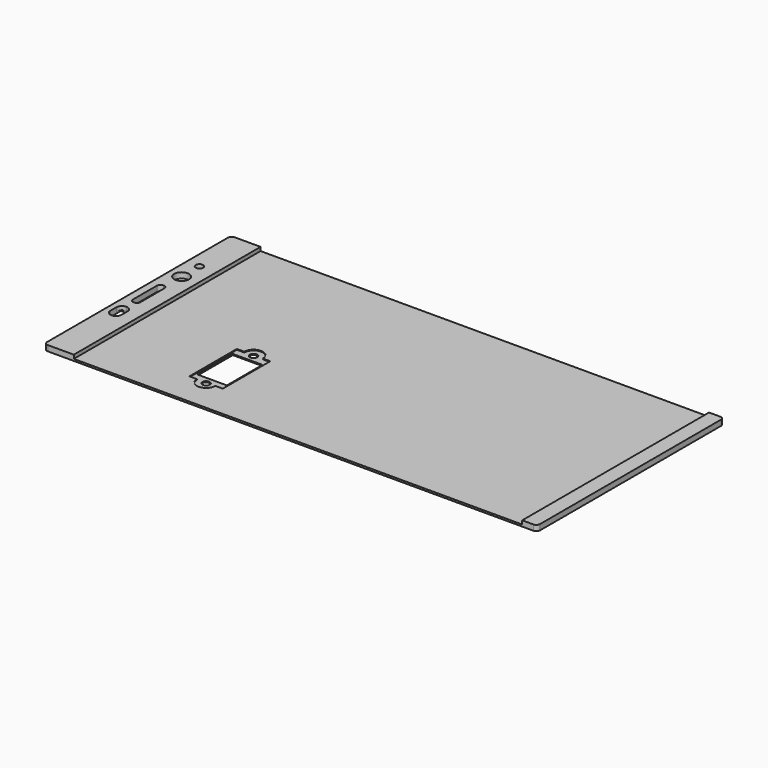
from build123d import *

# Parameters (mm, degrees)
BOX016_W          = 2
BOX016_H          = 10
BOX016_DEPTH      = 10
FILLET008_R       = 0.95
BOX017_W          = 3
BOX017_H          = 5
BOX017_DEPTH      = 10
CYLINDER011_R     = 2
CYLINDER011_DEPTH = 10
CYLINDER010_R     = 1
CYLINDER010_DEPTH = 10
CYLINDER005_R     = 1
CYLINDER005_DEPTH = 10
CYLINDER004_R     = 1
CYLINDER004_DEPTH = 10
CYLINDER009_R     = 1.2
CYLINDER009_DEPTH = 0.1
CYLINDER008_R     = 1.2
CYLINDER008_DEPTH = 0.1
BOX011_W          = 9
BOX011_H          = 2
BOX011_DEPTH      = 0.3
BOX012_W          = 9
BOX012_H          = 2
BOX012_DEPTH      = 0.3
CYLINDER006_R     = 1.5
CYLINDER006_DEPTH = 10
CYLINDER007_R     = 1.5
CYLINDER007_DEPTH = 10
BOX010_W          = 8
BOX010_H          = 16
BOX010_DEPTH      = 1.2
CYLINDER003_R     = 2.5
CYLINDER003_DEPTH = 0.3
CYLINDER002_R     = 2.5
CYLINDER002_DEPTH = 0.3
BOX009_W          = 9
BOX009_H          = 16
BOX009_DEPTH      = 0.3
BOX003_W          = 133
BOX003_H          = 63
BOX003_DEPTH      = 0.5
FILLET004_R       = 1
BOX007_W          = 4
BOX007_H          = 63
BOX007_DEPTH      = 1
FILLET006_R       = 1
BOX018_W          = 3
BOX018_H          = 5
BOX018_DEPTH      = 10
FILLET009_R       = 1.49
BOX006_W          = 8
BOX006_H          = 63
BOX006_DEPTH      = 1
FILLET007_R       = 1


with BuildPart() as fillet008:
    # Box016 → Box016 (new body)
    with BuildSketch(Plane(origin=(4, 28.5, 0), x_dir=(1, 0, 0), z_dir=(0, 0, 1))):
        with Locations((1, 5)):
            Rectangle(BOX016_W, BOX016_H)
    extrude(amount=BOX016_DEPTH)

    # Fillet008
    fillet008_edges = [fillet008.edges().sort_by_distance(p)[0] for p in [
        (4, 28.5, 5),
        (4, 38.5, 5),
        (6, 28.5, 5),
        (6, 38.5, 5),
    ]]
    fillet(fillet008_edges, radius=FILLET008_R)


with BuildPart() as cubo011:
    # Box017 → Box017 (new body)
    with BuildSketch(Plane(origin=(3.5, 21, 0), x_dir=(1, 0, 0), z_dir=(0, 0, 1))):
        with Locations((1.5, 2.5)):
            Rectangle(BOX017_W, BOX017_H)
    extrude(amount=BOX017_DEPTH)


with BuildPart() as cilindro011:
    # Cylinder011 → Cylinder011 (new body)
    with BuildSketch(Plane(origin=(5.5, 44, 0), x_dir=(1, 0, 0), z_dir=(0, 0, 1))):
        Circle(CYLINDER011_R)
    extrude(amount=CYLINDER011_DEPTH)


with BuildPart() as cilindro010:
    # Cylinder010 → Cylinder010 (new body)
    with BuildSketch(Plane(origin=(5.5, 50, 0), x_dir=(1, 0, 0), z_dir=(0, 0, 1))):
        Circle(CYLINDER010_R)
    extrude(amount=CYLINDER010_DEPTH)


with BuildPart() as cilindro005:
    # Cylinder005 → Cylinder005 (new body)
    with BuildSketch(Plane(origin=(38.5, 11, 1), x_dir=(1, 0, 0), z_dir=(0, 0, 1))):
        Circle(CYLINDER005_R)
    extrude(amount=CYLINDER005_DEPTH)


with BuildPart() as cilindro004:
    # Cylinder004 → Cylinder004 (new body)
    with BuildSketch(Plane(origin=(38.5, 27, 1), x_dir=(1, 0, 0), z_dir=(0, 0, 1))):
        Circle(CYLINDER004_R)
    extrude(amount=CYLINDER004_DEPTH)


with BuildPart() as cilindro009:
    # Cylinder009 → Cylinder009 (new body)
    with BuildSketch(Plane(origin=(38.5, 27, 1), x_dir=(1, 0, 0), z_dir=(0, 0, 1))):
        Circle(CYLINDER009_R)
    extrude(amount=CYLINDER009_DEPTH)


with BuildPart() as cilindro008:
    # Cylinder008 → Cylinder008 (new body)
    with BuildSketch(Plane(origin=(38.5, 11, 1), x_dir=(1, 0, 0), z_dir=(0, 0, 1))):
        Circle(CYLINDER008_R)
    extrude(amount=CYLINDER008_DEPTH)


with BuildPart() as cubo008:
    # Box011 → Box011 (new body)
    with BuildSketch(Plane(origin=(34, 11, 5.5), x_dir=(1, 0, 0), z_dir=(0, 0, 1))):
        with Locations((4.5, 1)):
            Rectangle(BOX011_W, BOX011_H)
    extrude(amount=BOX011_DEPTH)


with BuildPart() as cubo009:
    # Box012 → Box012 (new body)
    with BuildSketch(Plane(origin=(34, 25, 5.5), x_dir=(1, 0, 0), z_dir=(0, 0, 1))):
        with Locations((4.5, 1)):
            Rectangle(BOX012_W, BOX012_H)
    extrude(amount=BOX012_DEPTH)


with BuildPart() as cilindro006:
    # Cylinder006 → Cylinder006 (new body)
    with BuildSketch(Plane(origin=(38.5, 11, 1), x_dir=(1, 0, 0), z_dir=(0, 0, 1))):
        Circle(CYLINDER006_R)
    extrude(amount=CYLINDER006_DEPTH)


with BuildPart() as cilindro007:
    # Cylinder007 → Cylinder007 (new body)
    with BuildSketch(Plane(origin=(38.5, 27, 1), x_dir=(1, 0, 0), z_dir=(0, 0, 1))):
        Circle(CYLINDER007_R)
    extrude(amount=CYLINDER007_DEPTH)


with BuildPart() as cut008:
    # Box010 → Box010 (new body)
    with BuildSketch(Plane(origin=(34.5, 11, 5), x_dir=(1, 0, 0), z_dir=(0, 0, 1))):
        with Locations((4, 8)):
            Rectangle(BOX010_W, BOX010_H)
    extrude(amount=BOX010_DEPTH)

    # Cut001: cut Cilindro004
    add(cilindro004.part, mode=Mode.SUBTRACT)

    # Cut002: cut Cilindro005
    add(cilindro005.part, mode=Mode.SUBTRACT)

    # Cut007: cut Cilindro007
    add(cilindro007.part, mode=Mode.SUBTRACT)

    # Cut008: cut Cilindro006
    add(cilindro006.part, mode=Mode.SUBTRACT)


with BuildPart() as cilindro003:
    # Cylinder003 → Cylinder003 (new body)
    with BuildSketch(Plane(origin=(38.5, 27, 1), x_dir=(1, 0, 0), z_dir=(0, 0, 1))):
        Circle(CYLINDER003_R)
    extrude(amount=CYLINDER003_DEPTH)


with BuildPart() as cilindro002:
    # Cylinder002 → Cylinder002 (new body)
    with BuildSketch(Plane(origin=(38.5, 11, 1), x_dir=(1, 0, 0), z_dir=(0, 0, 1))):
        Circle(CYLINDER002_R)
    extrude(amount=CYLINDER002_DEPTH)


with BuildPart() as dont_show:
    # Box009 → Box009 (new body)
    with BuildSketch(Plane(origin=(34, 11, 1), x_dir=(1, 0, 0), z_dir=(0, 0, 1))):
        with Locations((4.5, 8)):
            Rectangle(BOX009_W, BOX009_H)
    extrude(amount=BOX009_DEPTH)

    # Fusion001: union Cilindro003, Cilindro002
    add(cilindro003.part)
    add(cilindro002.part)


with BuildPart() as dont_show_1:
    # Fusion001 placement: moved
    add(dont_show.part.moved(Location((0, 0, 4.4))))

    # Cut003: cut Cilindro005
    add(cilindro005.part, mode=Mode.SUBTRACT)

    # Cut004: cut Cilindro004
    add(cilindro004.part, mode=Mode.SUBTRACT)


with BuildPart() as dont_show_2:
    # Cut004 placement: moved
    add(dont_show_1.part.moved(Location((0, 0, 0.4))))

    # Fusion002: union Cut008
    add(cut008.part)


with BuildPart() as cut022:
    # Box003 → Box003 (new body)
    with BuildSketch(Plane(origin=(2, 2, 5.5), x_dir=(1, 0, 0), z_dir=(0, 0, 1))):
        with Locations((66.5, 31.5)):
            Rectangle(BOX003_W, BOX003_H)
    extrude(amount=BOX003_DEPTH)

    # Fillet004
    fillet004_edges = [cut022.edges().sort_by_distance(p)[0] for p in [
        (2, 2, 5.75),
        (2, 65, 5.75),
        (135, 2, 5.75),
        (135, 65, 5.75),
    ]]
    fillet(fillet004_edges, radius=FILLET004_R)

    # Cut009: cut Dont show
    add(dont_show_2.part, mode=Mode.SUBTRACT)

    # Fusion003: union Cubo008, Cubo009
    add(cubo008.part)
    add(cubo009.part)

    # Cut010: cut Cilindro008
    add(cilindro008.part, mode=Mode.SUBTRACT)

    # Cut011: cut Cilindro009
    add(cilindro009.part, mode=Mode.SUBTRACT)

    # Cut012: cut Cilindro004
    add(cilindro004.part, mode=Mode.SUBTRACT)

    # Cut013: cut Cilindro005
    add(cilindro005.part, mode=Mode.SUBTRACT)

    # Cut017: cut Cilindro010
    add(cilindro010.part, mode=Mode.SUBTRACT)

    # Cut019: cut Cilindro011
    add(cilindro011.part, mode=Mode.SUBTRACT)

    # Cut020: cut Cubo011
    add(cubo011.part, mode=Mode.SUBTRACT)

    # Cut022: cut Fillet008
    add(fillet008.part, mode=Mode.SUBTRACT)


with BuildPart() as bottom:
    # Box007 → Box007 (new body)
    with BuildSketch(Plane(origin=(131, 2, 6), x_dir=(1, 0, 0), z_dir=(0, 0, 1))):
        with Locations((2, 31.5)):
            Rectangle(BOX007_W, BOX007_H)
    extrude(amount=BOX007_DEPTH)

    # Fillet006
    fillet006_edges = [bottom.edges().sort_by_distance(p)[0] for p in [
        (135, 2, 6.5),
        (135, 65, 6.5),
    ]]
    fillet(fillet006_edges, radius=FILLET006_R)


with BuildPart() as fillet009:
    # Box018 → Box018 (new body)
    with BuildSketch(Plane(origin=(3.5, 21, 0), x_dir=(1, 0, 0), z_dir=(0, 0, 1))):
        with Locations((1.5, 2.5)):
            Rectangle(BOX018_W, BOX018_H)
    extrude(amount=BOX018_DEPTH)

    # Fillet009
    fillet009_edges = [fillet009.edges().sort_by_distance(p)[0] for p in [
        (3.5, 21, 5),
        (3.5, 26, 5),
        (6.5, 21, 5),
        (6.5, 26, 5),
    ]]
    fillet(fillet009_edges, radius=FILLET009_R)


with BuildPart() as fusion004:
    # Box006 → Box006 (new body)
    with BuildSketch(Plane(origin=(2, 2, 6), x_dir=(1, 0, 0), z_dir=(0, 0, 1))):
        with Locations((4, 31.5)):
            Rectangle(BOX006_W, BOX006_H)
    extrude(amount=BOX006_DEPTH)

    # Fillet007
    fillet007_edges = [fusion004.edges().sort_by_distance(p)[0] for p in [
        (2, 2, 6.5),
        (2, 65, 6.5),
    ]]
    fillet(fillet007_edges, radius=FILLET007_R)

    # Cut015: cut Fillet008
    add(fillet008.part, mode=Mode.SUBTRACT)

    # Cut018: cut Cilindro010
    add(cilindro010.part, mode=Mode.SUBTRACT)

    # Cut021: cut Fillet009
    add(fillet009.part, mode=Mode.SUBTRACT)

    # Cut023: cut Cilindro011
    add(cilindro011.part, mode=Mode.SUBTRACT)

    # Fusion004: union Cut022, Bottom
    add(cut022.part)
    add(bottom.part)


solid = fusion004.part
